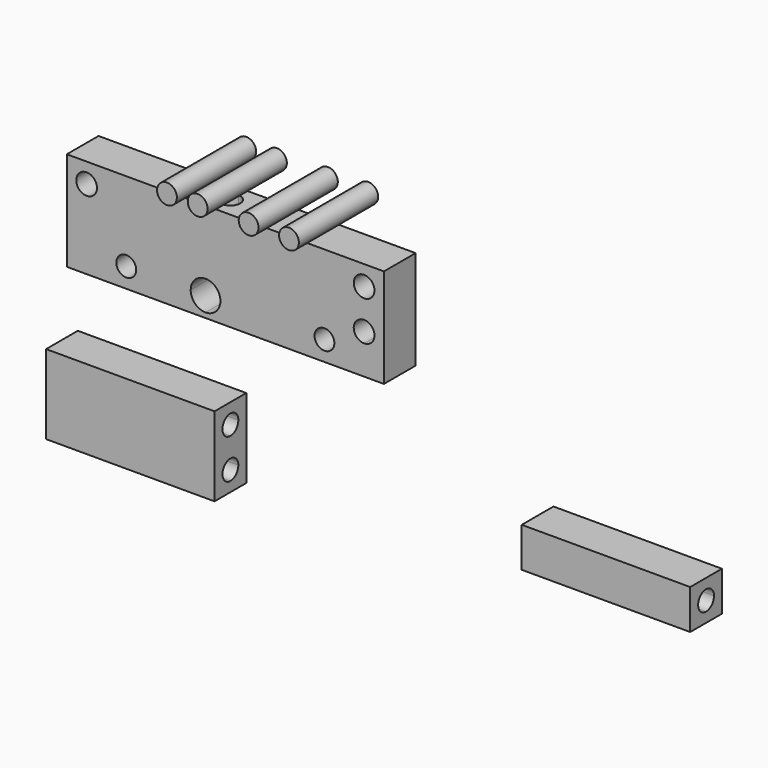
from build123d import *

# Parameters (mm, degrees)
F0_R      = 3.3217197239
F0_W      = 6.35
F0_H      = 6.35
F1_DEPTH  = 12.7
F0_W_2    = 53.975
F0_H_2    = 25.4
F3_DEPTH  = 25.4
F5_DEPTH  = 25.4
F7_DEPTH  = 31.75
F9_DEPTH  = 25.4
F11_W     = 53.975
F11_H     = 12.7
F12_DEPTH = 25.4


with BuildPart() as f1:
    # F0 (on Front) → F1 (new body)
    with BuildSketch(Plane.XZ):
        with BuildLine():
            Line((-2.8839016237, 31.75), (-47.3339016237, 31.75))
            Line((-47.3339016237, 31.75), (-47.3339016237, 6.35))
            Line((-47.3339016237, 6.35), (-31.4589016237, 6.35))
            ThreePointArc((-31.4589016237, 6.35), (-28.2839016237, 9.525), (-25.1089016237, 6.35))
            Line((-25.1089016237, 6.35), (-7.6464016237, 6.35))
            ThreePointArc((-7.6464016237, 6.35), (-6.2514976691, 9.7175960454), (-2.8839016237, 11.1125))
            Line((-2.8839016237, 11.1125), (-2.8839016237, 31.75))
        make_face()
        with Locations((-40.9839016237, 25.4)):
            Circle(F0_R, mode=Mode.SUBTRACT)
        with BuildLine():
            Line((54.2660983763, 31.75), (-2.8839016237, 31.75))
            Line((-2.8839016237, 31.75), (-2.8839016237, 11.1125))
            ThreePointArc((-2.8839016237, 11.1125), (0.4836944217, 9.7175960454), (1.8785983763, 6.35))
            Line((1.8785983763, 6.35), (32.0410983763, 6.35))
            ThreePointArc((32.0410983763, 6.35), (35.2160983763, 9.525), (38.3910983763, 6.35))
            Line((38.3910983763, 6.35), (47.9160983763, 6.35))
            Line((47.9160983763, 6.35), (54.2660983763, 6.35))
            Line((54.2660983763, 6.35), (54.2660983763, 31.75))
        make_face()
        with BuildLine():
            ThreePointArc((51.2378181002, 12.7), (50.2649089182, 10.351189458), (47.9160983763, 9.3782802761))
            ThreePointArc((47.9160983763, 9.3782802761), (45.5672878343, 15.048810542), (51.2378181002, 12.7))
        make_face(mode=Mode.SUBTRACT)
        with Locations((47.9160983763, 25.4)):
            Circle(F0_R, mode=Mode.SUBTRACT)
        with BuildLine():
            Line((-31.4589016237, 6.35), (-47.3339016237, 6.35))
            Line((-47.3339016237, 6.35), (-47.3339016237, 0))
            Line((-47.3339016237, 0), (-2.8839016237, 0))
            Line((-2.8839016237, 0), (-2.8839016237, 1.5875))
            ThreePointArc((-2.8839016237, 1.5875), (-6.2514976691, 2.9824039546), (-7.6464016237, 6.35))
            Line((-7.6464016237, 6.35), (-25.1089016237, 6.35))
            ThreePointArc((-25.1089016237, 6.35), (-28.2839016237, 3.175), (-31.4589016237, 6.35))
        make_face()
        with Locations((51.0910983763, 3.175)):
            Rectangle(F0_W, F0_H)
        with BuildLine():
            Line((32.0410983763, 6.35), (1.8785983763, 6.35))
            ThreePointArc((1.8785983763, 6.35), (0.4836944217, 2.9824039546), (-2.8839016237, 1.5875))
            Line((-2.8839016237, 1.5875), (-2.8839016237, 0))
            Line((-2.8839016237, 0), (47.9160983763, 0))
            Line((47.9160983763, 0), (47.9160983763, 6.35))
            Line((47.9160983763, 6.35), (38.3910983763, 6.35))
            ThreePointArc((38.3910983763, 6.35), (35.2160983763, 3.175), (32.0410983763, 6.35))
        make_face()
    extrude(amount=F1_DEPTH)

    # F8 (on face) → F9 (cut)
    with BuildSketch(Plane.XY.offset(31.75)):
        with BuildLine():
            ThreePointArc((3.175, -6.35), (2.2450640303, -4.1049359697), (0, -3.175))
            Line((0, -3.175), (0, -9.525))
            ThreePointArc((0, -9.525), (2.2450640303, -8.5950640303), (3.175, -6.35))
        make_face()
        with BuildLine():
            Line((0, -9.525), (0, -3.175))
            ThreePointArc((0, -3.175), (-3.175, -6.35), (0, -9.525))
        make_face()
    extrude(amount=-F9_DEPTH, mode=Mode.SUBTRACT)


with BuildPart() as f1b:
    # F0 (on Front) → F1, piece 2 (new body)
    with BuildSketch(Plane.XZ):
        with Locations((-26.9875, -38.0639199495)):
            Rectangle(F0_W_2, F0_H_2)
    extrude(amount=F1_DEPTH)

    # F2 (on face) → F3 (cut)
    with BuildSketch(Plane(origin=(-53.975, 0, 0), x_dir=(0, -1, 0), z_dir=(-1, 0, 0))):
        with BuildLine():
            ThreePointArc((9.525, -31.7139199495), (8.5950640303, -29.4688559193), (6.35, -28.5389199495))
            Line((6.35, -28.5389199495), (6.35, -34.8889199495))
            ThreePointArc((6.35, -34.8889199495), (8.5950640303, -33.9589839798), (9.525, -31.7139199495))
        make_face()
        with BuildLine():
            ThreePointArc((9.525, -44.4139199495), (8.5950640303, -42.1688559193), (6.35, -41.2389199495))
            Line((6.35, -41.2389199495), (6.35, -47.5889199495))
            ThreePointArc((6.35, -47.5889199495), (8.5950640303, -46.6589839798), (9.525, -44.4139199495))
        make_face()
        with BuildLine():
            Line((6.35, -47.5889199495), (6.35, -41.2389199495))
            ThreePointArc((6.35, -41.2389199495), (3.175, -44.4139199495), (6.35, -47.5889199495))
        make_face()
        with BuildLine():
            Line((6.35, -34.8889199495), (6.35, -28.5389199495))
            ThreePointArc((6.35, -28.5389199495), (3.175, -31.7139199495), (6.35, -34.8889199495))
        make_face()
    extrude(amount=-F3_DEPTH, mode=Mode.SUBTRACT)

    # F4 (on face) → F5 (cut)
    with BuildSketch(Plane.YZ):
        with BuildLine():
            ThreePointArc((-3.175, -31.7139199495), (-4.1049359697, -29.4688559193), (-6.35, -28.5389199495))
            Line((-6.35, -28.5389199495), (-6.35, -34.8889199495))
            ThreePointArc((-6.35, -34.8889199495), (-4.1049359697, -33.9589839798), (-3.175, -31.7139199495))
        make_face()
        with BuildLine():
            ThreePointArc((-3.175, -44.4139199495), (-4.1049359697, -42.1688559193), (-6.35, -41.2389199495))
            Line((-6.35, -41.2389199495), (-6.35, -47.5889199495))
            ThreePointArc((-6.35, -47.5889199495), (-4.1049359697, -46.6589839798), (-3.175, -44.4139199495))
        make_face()
        with BuildLine():
            Line((-6.35, -47.5889199495), (-6.35, -41.2389199495))
            ThreePointArc((-6.35, -41.2389199495), (-9.525, -44.4139199495), (-6.35, -47.5889199495))
        make_face()
        with BuildLine():
            Line((-6.35, -34.8889199495), (-6.35, -28.5389199495))
            ThreePointArc((-6.35, -28.5389199495), (-9.525, -31.7139199495), (-6.35, -34.8889199495))
        make_face()
    extrude(amount=-F5_DEPTH, mode=Mode.SUBTRACT)


with BuildPart() as f7:
    # F6 (on Front) → F7 (new body)
    with BuildSketch(Plane.XZ):
        with BuildLine():
            Line((35.9097101808, 43.7253676355), (42.2597101808, 43.7253676355))
            ThreePointArc((42.2597101808, 43.7253676355), (39.0847101808, 46.9003676355), (35.9097101808, 43.7253676355))
        make_face()
        with BuildLine():
            ThreePointArc((35.9097101808, 43.7253676355), (39.0847101808, 40.5503676355), (42.2597101808, 43.7253676355))
            Line((42.2597101808, 43.7253676355), (35.9097101808, 43.7253676355))
        make_face()
    extrude(amount=F7_DEPTH)


with BuildPart() as f7b:
    # F6 (on Front) → F7, piece 2 (new body)
    with BuildSketch(Plane.XZ):
        with BuildLine():
            ThreePointArc((-3.175, 43.7253676355), (0, 40.5503676355), (3.175, 43.7253676355))
            Line((3.175, 43.7253676355), (-3.175, 43.7253676355))
        make_face()
        with BuildLine():
            Line((-3.175, 43.7253676355), (3.175, 43.7253676355))
            ThreePointArc((3.175, 43.7253676355), (0, 46.9003676355), (-3.175, 43.7253676355))
        make_face()
    extrude(amount=F7_DEPTH)


with BuildPart() as f7c:
    # F6 (on Front) → F7, piece 3 (new body)
    with BuildSketch(Plane.XZ):
        with BuildLine():
            ThreePointArc((6.6520801827, 43.7253676355), (9.8270801827, 40.5503676355), (13.0020801827, 43.7253676355))
            Line((13.0020801827, 43.7253676355), (6.6520801827, 43.7253676355))
        make_face()
        with BuildLine():
            Line((6.6520801827, 43.7253676355), (13.0020801827, 43.7253676355))
            ThreePointArc((13.0020801827, 43.7253676355), (9.8270801827, 46.9003676355), (6.6520801827, 43.7253676355))
        make_face()
    extrude(amount=F7_DEPTH)


with BuildPart() as f7d:
    # F6 (on Front) → F7, piece 4 (new body)
    with BuildSketch(Plane.XZ):
        with BuildLine():
            ThreePointArc((22.9849756777, 43.7253676355), (26.1599756777, 40.5503676355), (29.3349756777, 43.7253676355))
            Line((29.3349756777, 43.7253676355), (22.9849756777, 43.7253676355))
        make_face()
        with BuildLine():
            Line((22.9849756777, 43.7253676355), (29.3349756777, 43.7253676355))
            ThreePointArc((29.3349756777, 43.7253676355), (26.1599756777, 46.9003676355), (22.9849756777, 43.7253676355))
        make_face()
    extrude(amount=F7_DEPTH)


with BuildPart() as f10_1:
    # F10: copy of F1b
    add(f1b.part.moved(Location((152.4, 0, 0))))

    # F11 (on face) → F12 (cut)
    with BuildSketch(Plane(origin=(0, 0, 0), x_dir=(-1, 0, 0), z_dir=(0, 1, 0))):
        with Locations((-125.4125, -44.4139199495)):
            Rectangle(F11_W, F11_H)
    extrude(amount=-F12_DEPTH, mode=Mode.SUBTRACT)


solid = Compound([f1.part, f1b.part, f7.part, f7b.part, f7c.part, f7d.part, f10_1.part])
